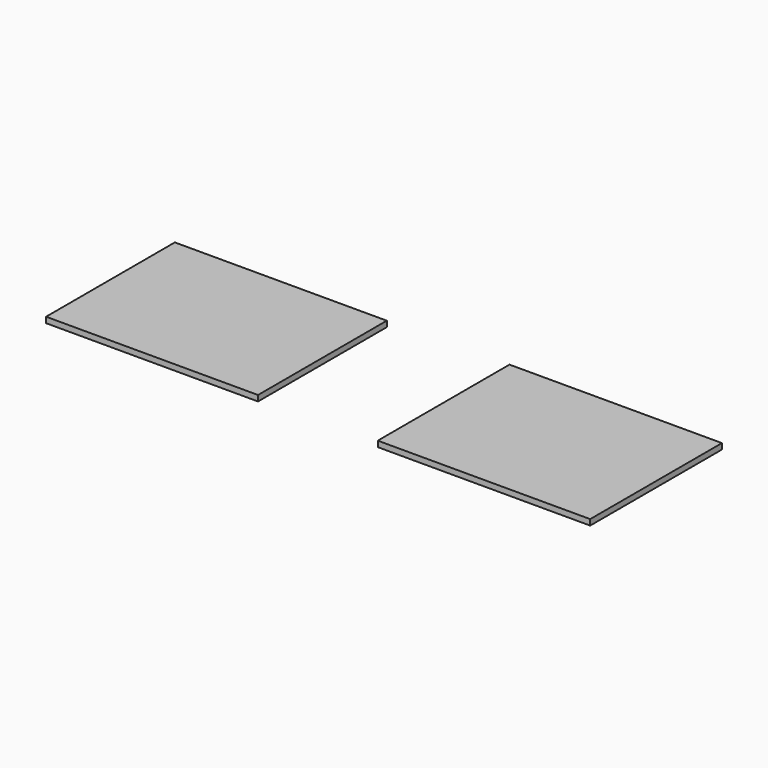
from build123d import *

# Parameters (mm, degrees)
F0_W     = 676.275
F0_H     = 513.55625
F1_DEPTH = 18.25625
F0_W_2   = 677.8625
F0_H_2   = 525.4625


with BuildPart() as f1:
    # F0 (on Top) → F1 (new body)
    with BuildSketch(Plane.XY):
        with Locations((-544.6568183383, 0)):
            Rectangle(F0_W, F0_H)
    extrude(amount=F1_DEPTH)


with BuildPart() as f1b:
    # F0 (on Top) → F1, piece 2 (new body)
    with BuildSketch(Plane.XY):
        with Locations((519.2568183383, 0)):
            Rectangle(F0_W_2, F0_H_2)
    extrude(amount=F1_DEPTH)


solid = Compound([f1.part, f1b.part])
